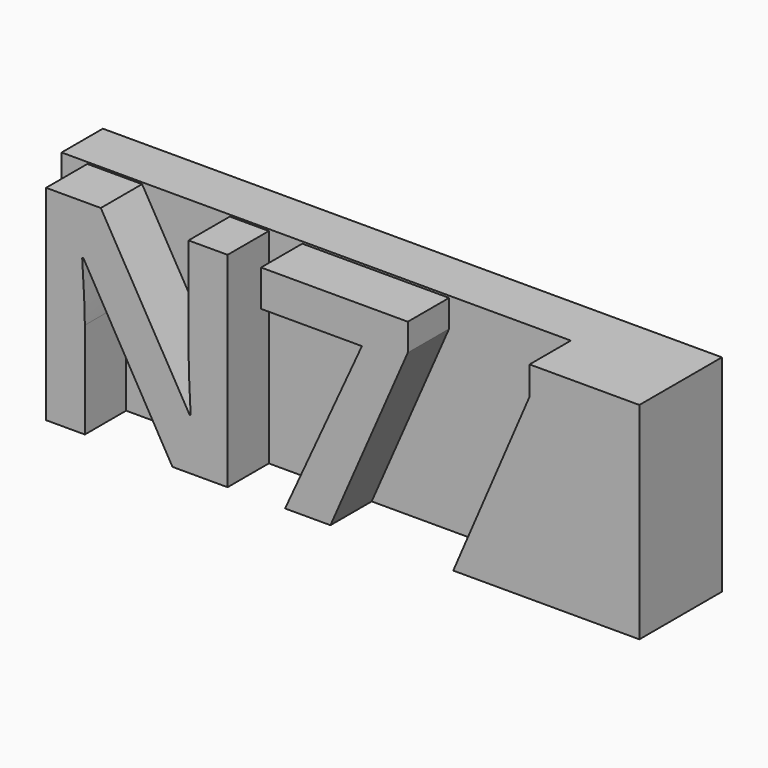
from build123d import *

# Parameters (mm, degrees)
F1_DEPTH = 6.35
F2_DEPTH = 12.7
F3_DEPTH = 12.7
F4_DEPTH = 12.7


with BuildPart() as f1:
    # F0 (on Front) → F1 (new body)
    with BuildSketch(Plane.XZ):
        with BuildLine():
            Line((-21.8190787262, 97.9073354615), (-21.8190787262, 86.0562069893))
            Line((-21.8190787262, 86.0562069893), (-11.0373078929, 86.0562069893))
            Line((-11.0373078929, 86.0562069893), (-21.9954676151, 105.1062069893))
            Line((-21.9954676151, 105.1062069893), (-22.1498078929, 105.1062069893))
            add(Edge.make_bspline(
                [(-22.1498078929, 105.1062069893), (-21.8190787262, 100.0625871976), (-21.8190787262, 97.9073354615)],
                knots=[0, 0, 0, 1, 1, 1], degree=2))
        make_face()
    extrude(amount=F1_DEPTH)



with BuildPart() as f1b:
    # F0 (on Front) → F1, piece 2 (new body)
    with BuildSketch(Plane.XZ):
        with BuildLine():
            Line((20.2221105099, 111.4562069893), (-29.762090879, 111.4562069893))
            Line((-29.762090879, 111.4562069893), (-29.762090879, 86.0562069893))
            Line((-29.762090879, 86.0562069893), (-26.5926030318, 86.0562069893))
            Line((-26.5926030318, 86.0562069893), (-26.5926030318, 111.241233031))
            Line((-26.5926030318, 111.241233031), (-19.8567523373, 111.241233031))
            Line((-19.8567523373, 111.241233031), (-8.9206412262, 92.3786462254))
            Line((-8.9206412262, 92.3786462254), (-8.7993738651, 92.3786462254))
            add(Edge.make_bspline(
                [(-8.7993738651, 92.3786462254), (-9.0584450457, 97.2899743504), (-9.0584450457, 99.3184465726)],
                knots=[0, 0, 0, 1, 1, 1], degree=2))
            Line((-9.0584450457, 99.3184465726), (-9.0584450457, 111.241233031))
            Line((-9.0584450457, 111.241233031), (-4.2518478234, 111.241233031))
            Line((-4.2518478234, 111.241233031), (-4.2518478234, 86.0562069893))
            Line((-4.2518478234, 86.0562069893), (2.8257563432, 86.0562069893))
            Line((2.8257563432, 86.0562069893), (12.2846105099, 106.726779906))
            Line((12.2846105099, 106.726779906), (-0.1342696984, 106.726779906))
            Line((-0.1342696984, 106.726779906), (-0.1342696984, 111.2081601143))
            Line((-0.1342696984, 111.2081601143), (17.9345671071, 111.2081601143))
            Line((17.9345671071, 111.2081601143), (17.9345671071, 107.8622833782))
            Line((17.9345671071, 107.8622833782), (8.4095671071, 86.0562069893))
            Line((8.4095671071, 86.0562069893), (20.2221105099, 86.0562069893))
            Line((20.2221105099, 86.0562069893), (23.5261658816, 86.0562069893))
            Line((23.5261658816, 86.0562069893), (32.9221105099, 107.9628691077))
            Line((32.9221105099, 107.9628691077), (32.9221105099, 111.4562069893))
            Line((32.9221105099, 111.4562069893), (20.2221105099, 111.4562069893))
        make_face()
    extrude(amount=F1_DEPTH)

    # F0 (on Front) → F2 (join)
    with BuildSketch(Plane.XZ):
        Polygon((2.8257563432, 86.0562069893), (8.4095671071, 86.0562069893), (17.9345671071, 107.8622833782), (17.9345671071, 111.2081601143), (-0.1342696984, 111.2081601143), (-0.1342696984, 106.726779906), (12.2846105099, 106.726779906), align=None)
    extrude(amount=F2_DEPTH)


with BuildPart() as f1_1:
    add(f1.part)

    add(f1b.part)  # F3 merges F1b
    # F0 (on Front) → F3 (join)
    with BuildSketch(Plane.XZ):
        with BuildLine():
            Line((-26.5926030318, 111.241233031), (-26.5926030318, 86.0562069893))
            Line((-26.5926030318, 86.0562069893), (-21.8190787262, 86.0562069893))
            Line((-21.8190787262, 86.0562069893), (-21.8190787262, 97.9073354615))
            add(Edge.make_bspline(
                [(-22.1498078929, 105.1062069893), (-21.8190787262, 100.0625871976), (-21.8190787262, 97.9073354615)],
                knots=[0, 0, 0, 1, 1, 1], degree=2))
            Line((-22.1498078929, 105.1062069893), (-21.9954676151, 105.1062069893))
            Line((-21.9954676151, 105.1062069893), (-11.0373078929, 86.0562069893))
            Line((-11.0373078929, 86.0562069893), (-4.2518478234, 86.0562069893))
            Line((-4.2518478234, 86.0562069893), (-4.2518478234, 111.241233031))
            Line((-4.2518478234, 111.241233031), (-9.0584450457, 111.241233031))
            Line((-9.0584450457, 111.241233031), (-9.0584450457, 99.3184465726))
            add(Edge.make_bspline(
                [(-8.7993738651, 92.3786462254), (-9.0584450457, 97.2899743504), (-9.0584450457, 99.3184465726)],
                knots=[0, 0, 0, 1, 1, 1], degree=2))
            Line((-8.7993738651, 92.3786462254), (-8.9206412262, 92.3786462254))
            Line((-8.9206412262, 92.3786462254), (-19.8567523373, 111.241233031))
            Line((-19.8567523373, 111.241233031), (-26.5926030318, 111.241233031))
        make_face()
    extrude(amount=F3_DEPTH)

    # F0 (on Front) → F4 (join)
    with BuildSketch(Plane.XZ):
        Polygon((46.437909121, 111.4562069893), (32.9221105099, 111.4562069893), (32.9221105099, 107.9628691077), (23.5261658816, 86.0562069893), (46.437909121, 86.0562069893), align=None)
    extrude(amount=F4_DEPTH)


solid = f1_1.part
